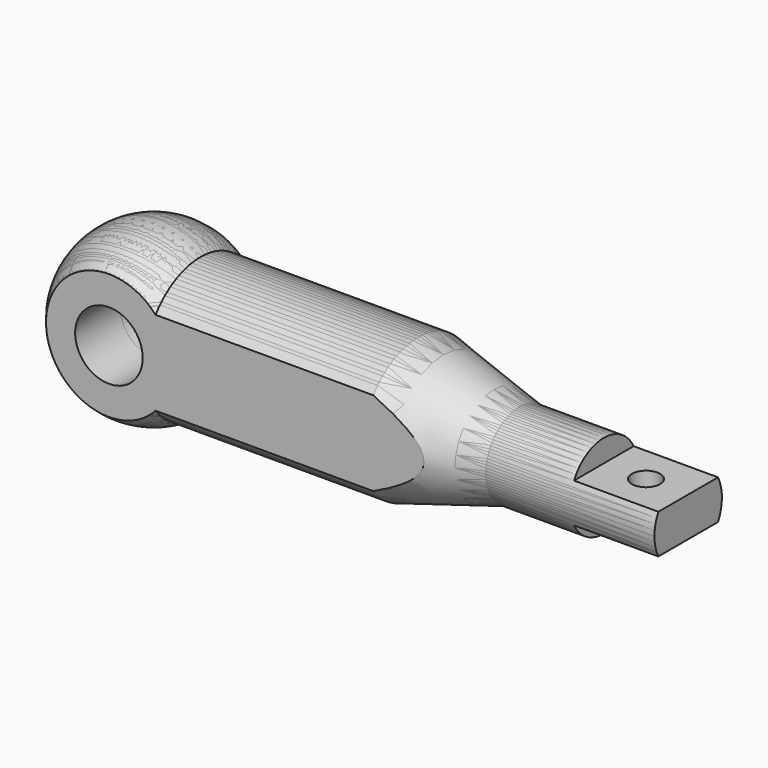
from build123d import *

# Parameters (mm, degrees)
F3_R     = 6
F3_W     = 15
F3_H     = 4
F4_DEPTH = 25
F5_R     = 2.5
F5_W     = 83.634722
F5_H     = 6.064514
F5_W_2   = 83.892783
F5_H_2   = 8.140588
F6_DEPTH = 25


with BuildPart() as f1:
    # F0 (on Front) → F1 (revolve)
    with BuildSketch(Plane.XZ):
        with BuildLine():
            Line((47, 12.5), (8.291562, 12.5))
            ThreePointArc((8.291562, 12.5), (-7.093186, 13.21691), (-15, 0))
            Line((-15, 0), (95, 0))
            Line((95, 0), (95, 7.5))
            Line((95, 7.5), (80, 7.5))
            Line((80, 7.5), (65, 7.5))
            Line((65, 7.5), (47, 12.5))
        make_face()
    revolve(axis=Axis((42.174323, 0, 0), (1, 0, 0)))


with BuildPart() as f2_1:
    # F2: instance of F1
    add(f1.part.mirror(Plane.XY))


with BuildPart() as f4_tool:
    # F3 (on Front) → F4 (new body, symmetric)
    with BuildSketch(Plane.XZ):
        Circle(F3_R)
        with Locations((87.5, 5.5)):
            Rectangle(F3_W, F3_H)
        with Locations((87.5, -5.5)):
            Rectangle(F3_W, F3_H)
    extrude(amount=F4_DEPTH, both=True)


with BuildPart() as f1_1:
    add(f1.part)

    # F4: cut by f4_tool
    add(f4_tool.part, mode=Mode.SUBTRACT)


with BuildPart() as f2_1_1:
    add(f2_1.part)

    # F4: cut by f4_tool
    add(f4_tool.part, mode=Mode.SUBTRACT)


with BuildPart() as f6_tool:
    # F5 (on Top) → F6 (new body, symmetric)
    with BuildSketch(Plane.XY):
        with Locations((87.5, 0)):
            Circle(F5_R)
        with Locations((25.832985, 13.032257)):
            Rectangle(F5_W, F5_H)
        with Locations((25.703955, -14.070294)):
            Rectangle(F5_W_2, F5_H_2)
    extrude(amount=F6_DEPTH, both=True)


with BuildPart() as f1_2:
    add(f1_1.part)

    # F6: cut by f6_tool
    add(f6_tool.part, mode=Mode.SUBTRACT)


with BuildPart() as f2_1_2:
    add(f2_1_1.part)

    # F6: cut by f6_tool
    add(f6_tool.part, mode=Mode.SUBTRACT)


solid = Compound([f1_2.part, f2_1_2.part])
